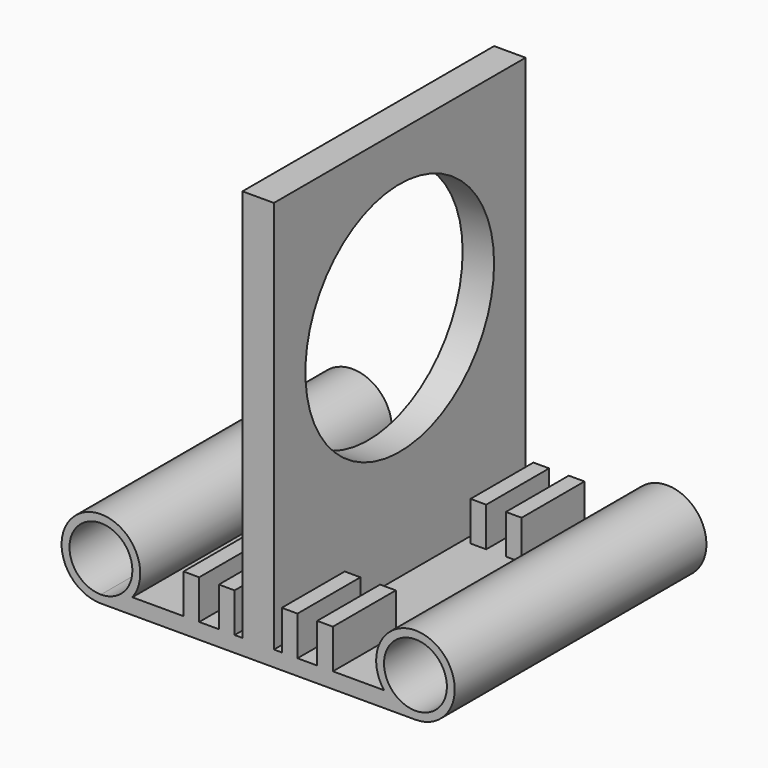
from build123d import *

# Parameters (mm, degrees)
F0_R     = 4
F0_W     = 4
F0_H     = 50
F1_DEPTH = 20
F2_W     = 2
F2_H     = 10
F3_DEPTH = 5
F4_R     = 15
F5_DEPTH = 25
F6_DEPTH = 5


with BuildPart() as f1:
    # F0 (on Front) → F1 (new body, symmetric)
    with BuildSketch(Plane.XZ):
        with BuildLine():
            Line((-20, -1), (20, -1))
            ThreePointArc((20, -1), (22.236068, 8.472136), (16, 1))
            Line((16, 1), (2, 1))
            Line((2, 1), (-2, 1))
            Line((-2, 1), (-16, 1))
            Line((-16, 1), (-17.354249, 1))
            ThreePointArc((-17.354249, 1), (-18.585786, 0.258343), (-20, 0))
            Line((-20, 0), (-20, -1))
        make_face()
        with Locations((20, 4)):
            Circle(F0_R, mode=Mode.SUBTRACT)
        with BuildLine():
            ThreePointArc((-16, 1), (-22.236068, 8.472136), (-20, -1))
            Line((-20, -1), (-20, 0))
            ThreePointArc((-20, 0), (-22.828427, 6.828427), (-16, 4))
            ThreePointArc((-16, 4), (-16.354249, 2.354249), (-17.354249, 1))
            Line((-17.354249, 1), (-16, 1))
        make_face()
        with Locations((0, 26)):
            Rectangle(F0_W, F0_H)
    extrude(amount=F1_DEPTH, both=True)

    # F2 (on face) → F3 (join)
    with BuildSketch(Plane.XY.offset(1)):
        with Locations((8.5, -15)):
            Rectangle(F2_W, F2_H)
        with Locations((4, -15)):
            Rectangle(F2_W, F2_H)
        with Locations((-8.5, -15)):
            Rectangle(F2_W, F2_H)
        with Locations((-4, -15)):
            Rectangle(F2_W, F2_H)
        with Locations((8.5, 15)):
            Rectangle(F2_W, F2_H)
        with Locations((-8.5, 15)):
            Rectangle(F2_W, F2_H)
        with Locations((-4, 15)):
            Rectangle(F2_W, F2_H)
        with Locations((4, 15)):
            Rectangle(F2_W, F2_H)
    extrude(amount=F3_DEPTH)

    # F4 (on face) → F5 (cut)
    with BuildSketch(Plane.YZ.offset(2)):
        with Locations((0, 30)):
            Circle(F4_R)
    extrude(amount=-F5_DEPTH, mode=Mode.SUBTRACT)

    # F2 (on face) → F6 (join)
    with BuildSketch(Plane.XY.offset(1)):
        with Locations((8.5, -15)):
            Rectangle(F2_W, F2_H)
        with Locations((4, -15)):
            Rectangle(F2_W, F2_H)
        with Locations((-8.5, -15)):
            Rectangle(F2_W, F2_H)
        with Locations((-4, -15)):
            Rectangle(F2_W, F2_H)
        with Locations((8.5, 15)):
            Rectangle(F2_W, F2_H)
        with Locations((-8.5, 15)):
            Rectangle(F2_W, F2_H)
        with Locations((-4, 15)):
            Rectangle(F2_W, F2_H)
        with Locations((4, 15)):
            Rectangle(F2_W, F2_H)
    extrude(amount=F6_DEPTH)


solid = f1.part
